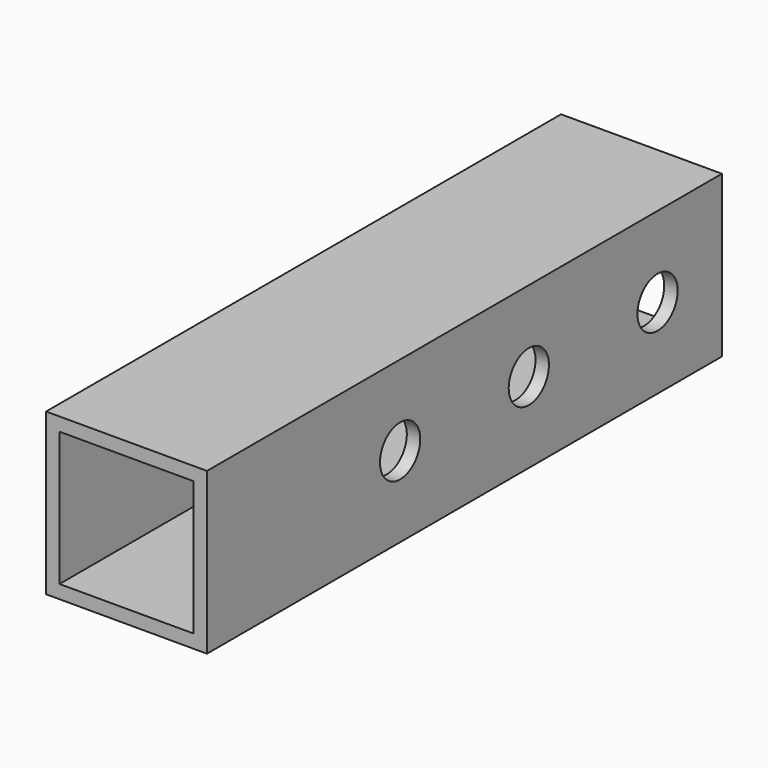
from build123d import *

# Parameters (mm, degrees)
F0_W     = 19.05
F0_H     = 19.05
F0_W_2   = 15.875
F0_H_2   = 15.875
F1_DEPTH = 76.2
F3_D     = 5.953125
F3_DEPTH = 6.35
F5_D     = 12.7
F5_DEPTH = 6.35


with BuildPart() as f1:
    # F0 (on Front) → F1 (new body)
    with BuildSketch(Plane.XZ):
        Rectangle(F0_W, F0_H)
        Rectangle(F0_W_2, F0_H_2, mode=Mode.SUBTRACT)
    extrude(amount=F1_DEPTH)

    # F3
    with Locations(Plane.YZ.offset(9.525)):
        with Locations((-9.525, 0), (-28.575, 0), (-47.625, 0)):
            Hole(F3_D / 2, depth=F3_DEPTH)

    # F5
    with Locations(Plane(origin=(-9.525, 0, 0), x_dir=(0, -1, 0), z_dir=(-1, 0, 0))):
        with Locations((9.525, 0), (28.575, 0), (47.625, 0)):
            Hole(F5_D / 2, depth=F5_DEPTH)


solid = f1.part
